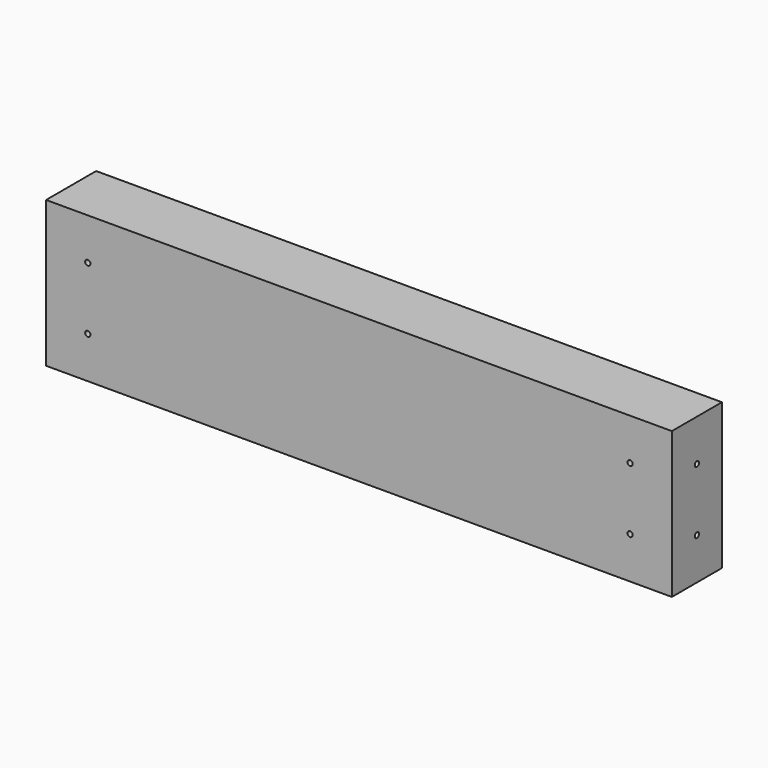
from build123d import *

# Parameters (mm, degrees)
F0_W     = 381
F0_H     = 88.9
F1_DEPTH = 38.1
F3_D     = 3.175
F5_D     = 3.175


with BuildPart() as f1:
    # F0 (on Front) → F1 (new body)
    with BuildSketch(Plane.XZ):
        with Locations((77.79364, 64.286581)):
            Rectangle(F0_W, F0_H)
    extrude(amount=F1_DEPTH)

    # F3 (through all)
    with Locations(Plane.YZ.offset(268.29364)):
        with Locations((-19.05, 83.336581), (-19.05, 45.236581)):
            Hole(F3_D / 2)

    # F5 (through all)
    with Locations(Plane(origin=(0, 0, 0), x_dir=(-1, 0, 0), z_dir=(0, 1, 0))):
        with Locations((-242.89364, 83.336581), (-242.89364, 45.236581), (87.30636, 83.336581), (87.30636, 45.236581)):
            Hole(F5_D / 2)


solid = f1.part
